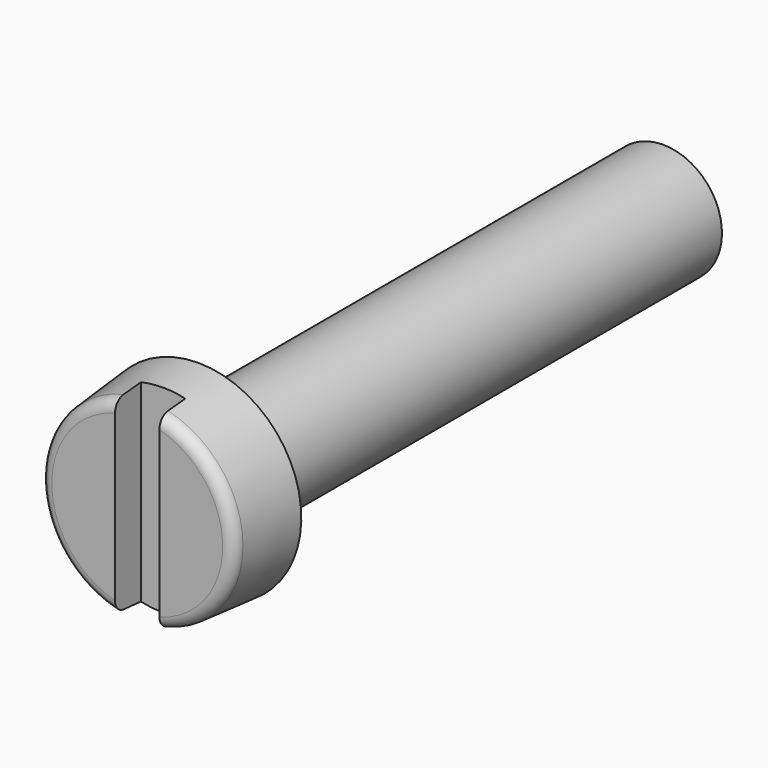
from build123d import *

# Parameters (mm, degrees)
SKETCH001_W  = 7
SKETCH001_H  = 1.51
POCKET_DEPTH = 1.1


with BuildPart() as part:
    # Sketch → Revolution (revolve)
    with BuildSketch(Plane.YZ):
        with BuildLine():
            Line((0, 2.905997), (0, 0))
            Line((0, 0), (22.6, 0))
            Line((22.6, 0), (22.6, 1.57))
            Line((22.6, 1.57), (22.351739, 2))
            Line((22.351739, 2), (2.6, 2))
            Line((2.6, 2), (2.6, 3.5))
            Line((2.6, 3.5), (0.365138, 3.304475))
            ThreePointArc((0.365138, 3.304475), (0.105089, 3.176233), (0, 2.905997))
        make_face()
    revolve(axis=Axis((0, 0, 0), (0, 1, 0)))

    # Sketch001 → Pocket (cut)
    with BuildSketch(Plane(origin=(0, 0, 0), x_dir=(0, 0, -1), z_dir=(0, -1, 0))):
        Rectangle(SKETCH001_W, SKETCH001_H)
    extrude(amount=-POCKET_DEPTH, mode=Mode.SUBTRACT)


solid = part.part
